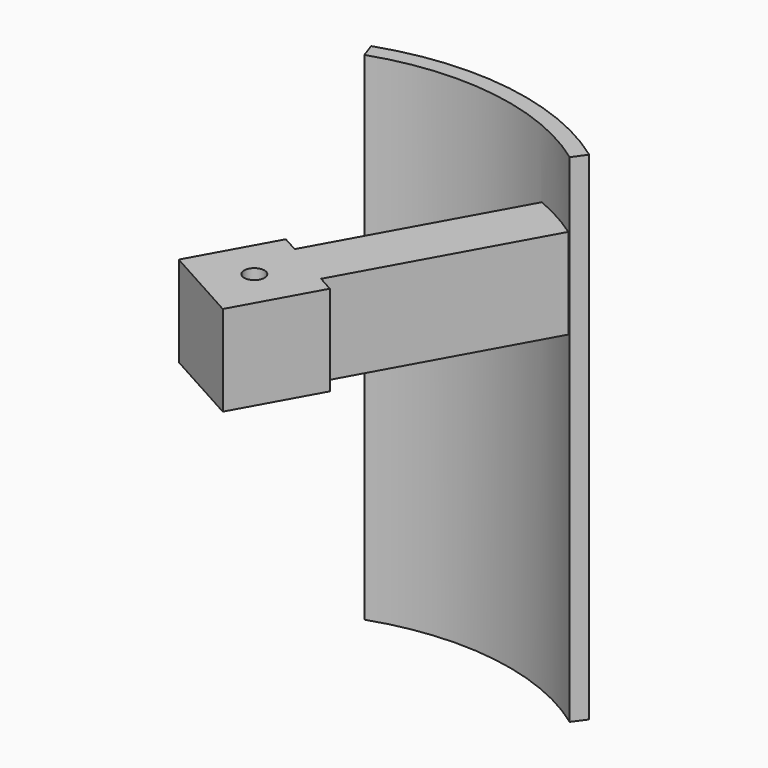
from build123d import *

# Parameters (mm, degrees)
PAD181_DEPTH              = 22
SKETCH263_W               = 4
SKETCH263_H               = 4
PAD177_DEPTH              = 13.5
SKETCH265_R               = 0.45
SKETCH265_W               = 0.8
SKETCH265_H               = 9.5
POCKET035_DEPTH           = 5
BODY047_PLACEMENT_ANGLE   = 90
FUSION005_PLACEMENT_ANGLE = 29


with BuildPart() as segment_wing005:
    # Sketch261 → Pad181 (new body)
    with BuildSketch(Plane.XY):
        with BuildLine():
            ThreePointArc((1.377124, 11.215772), (-3.957343, 10.584396), (-8.397537, 7.561176))
            Line((-8.397537, 7.561176), (-8.917738, 8.029567))
            ThreePointArc((1.462432, 11.910554), (-4.202489, 11.240066), (-8.917738, 8.029567))
            Line((1.377124, 11.215772), (1.462432, 11.910554))
        make_face()
    extrude(amount=PAD181_DEPTH)


with BuildPart() as segment_wing005_1:
    # Body050 placement: moved
    add(segment_wing005.part.moved(Location((0, 0, -9))))


with BuildPart() as segment_on005:
    # Sketch263 → Pad177 (new body)
    with BuildSketch(Plane.XY):
        with Locations((0, 6)):
            Rectangle(SKETCH263_W, SKETCH263_H)
    extrude(amount=PAD177_DEPTH)

    # Sketch265 (on Face1 of Pad177) → Pocket035 (cut)
    with BuildSketch(Plane(origin=(0, 8, 0), x_dir=(-1, 0, 0), z_dir=(0, 1, 0))):
        with Locations((0, 11.5)):
            Circle(SKETCH265_R)
        with Locations((-1.6, 4.75)):
            Rectangle(SKETCH265_W, SKETCH265_H)
        with Locations((1.6, 4.75)):
            Rectangle(SKETCH265_W, SKETCH265_H)
    extrude(amount=-POCKET035_DEPTH, mode=Mode.SUBTRACT)


with BuildPart() as segment_on005_1:
    # Body047 placement: moved
    add(segment_on005.part.moved(Location((0, 11.5, 2))).rotate(Axis((0, 11.5, 2), (1, 0, 0)), BODY047_PLACEMENT_ANGLE))

    # Fusion005: union Segment_Wing005
    add(segment_wing005_1.part)


with BuildPart() as segment_on005_2:
    # Fusion005 placement: moved
    add(segment_on005_1.part.rotate(Axis((0, 0, 0), (0, 0, -1)), FUSION005_PLACEMENT_ANGLE))


solid = segment_on005_2.part
